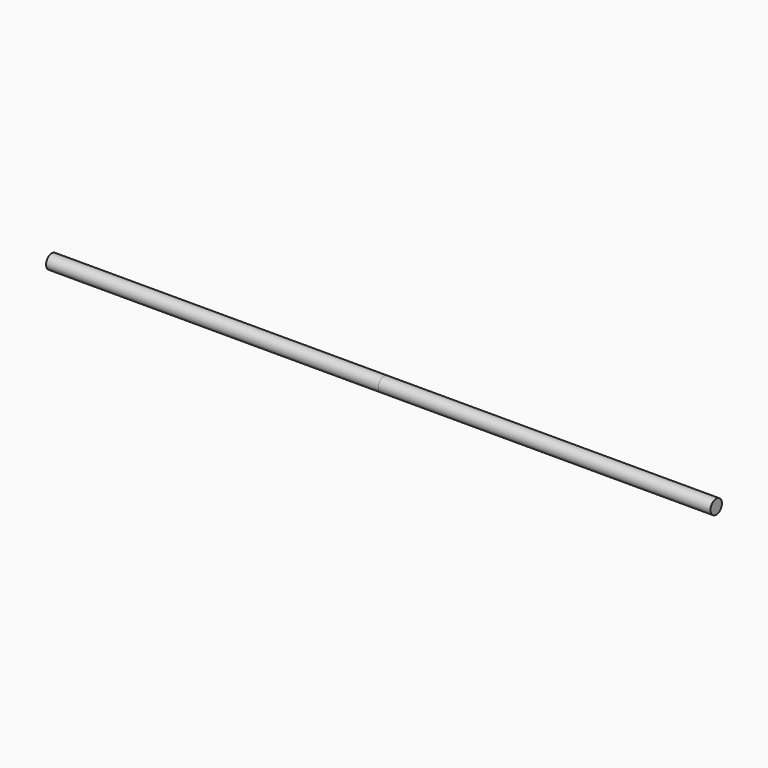
from build123d import *

# Parameters (mm, degrees)
F0_R     = 1.5
F1_DEPTH = 70
F2_R     = 1.5
F3_DEPTH = 70


with BuildPart() as f1:
    # F0 (on Right) → F1 (new body)
    with BuildSketch(Plane.YZ):
        Circle(F0_R)
    extrude(amount=F1_DEPTH)

    # F2 (on face) → F3 (join)
    with BuildSketch(Plane(origin=(0, 0, 0), x_dir=(0, -1, 0), z_dir=(-1, 0, 0))):
        Circle(F2_R)
    extrude(amount=F3_DEPTH)


solid = f1.part
